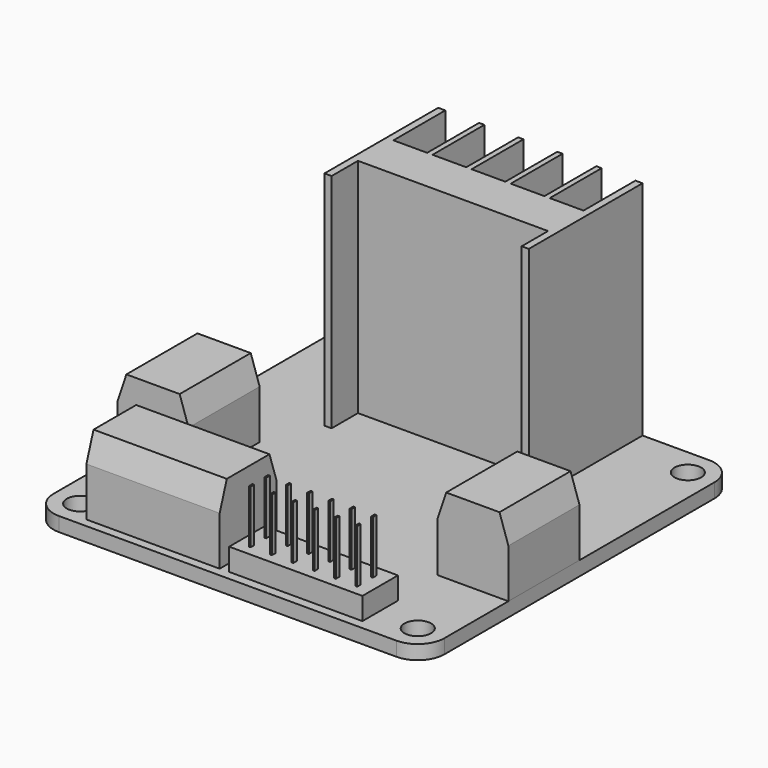
from build123d import *

# Parameters (mm, degrees)
F0_R      = 1.5
F1_DEPTH  = 0.8
F3_DEPTH  = 25
F4_W      = 15
F4_H      = 8
F4_W_2    = 8
F4_H_2    = 10
F5_DEPTH  = 8.5
F6_SIZE2  = 1
F6_SIZE   = 3
F7_W      = 15
F7_H      = 5
F8_DEPTH  = 2.5
F9_W      = 0.2
F9_H      = 0.5
F10_DEPTH = 6


with BuildPart() as f1:
    # F0 (on Top) → F1 (new body, symmetric)
    with BuildSketch(Plane.XY):
        with BuildLine():
            Line((19, 22), (-19, 22))
            ThreePointArc((-19, 22), (-21.12132, 21.12132), (-22, 19))
            Line((-22, 19), (-22, -19))
            ThreePointArc((-22, -19), (-21.12132, -21.12132), (-19, -22))
            Line((-19, -22), (19, -22))
            ThreePointArc((19, -22), (21.12132, -21.12132), (22, -19))
            Line((22, -19), (22, 19))
            ThreePointArc((22, 19), (21.12132, 21.12132), (19, 22))
        make_face()
        with Locations((-19, -19)):
            Circle(F0_R, mode=Mode.SUBTRACT)
        with Locations((19, -19)):
            Circle(F0_R, mode=Mode.SUBTRACT)
        with Locations((-19, 19)):
            Circle(F0_R, mode=Mode.SUBTRACT)
        with Locations((19, 19)):
            Circle(F0_R, mode=Mode.SUBTRACT)
    extrude(amount=F1_DEPTH, both=True)


with BuildPart() as f3:
    # F2 (on face) → F3 (new body)
    with BuildSketch(Plane.XY.offset(0.8)):
        Polygon((-10.7, 22), (-11.5, 22), (-11.5, 6), (-10.7, 6), (-10.7, 9.711665), (10.7, 9.711665), (10.7, 6), (11.5, 6), (11.5, 22), (10.7, 22), (10.7, 14.7), (6.9, 14.7), (6.9, 22), (6.3, 22), (6.3, 14.7), (2.5, 14.7), (2.5, 22), (1.9, 22), (1.9, 14.7), (-1.9, 14.7), (-1.9, 22), (-2.5, 22), (-2.5, 14.7), (-6.3, 14.7), (-6.3, 22), (-6.9, 22), (-6.9, 14.7), (-10.7, 14.7), align=None)
    extrude(amount=F3_DEPTH)


with BuildPart() as f5:
    # F4 (on face) → F5 (new body)
    with BuildSketch(Plane.XY.offset(0.8)):
        with Locations((-9.185456, -17.013481)):
            Rectangle(F4_W, F4_H)
        with Locations((-18, -5)):
            Rectangle(F4_W_2, F4_H_2)
        with Locations((18, -5)):
            Rectangle(F4_W_2, F4_H_2)
    extrude(amount=F5_DEPTH)

    # F6
    f6_edges = [f5.edges().sort_by_distance(p)[0] for p in [
        (22, -5, 9.3),
        (14, -5, 9.3),
        (-14, -5, 9.3),
        (-9.185456, -21.013481, 9.3),
        (-22, -5, 9.3),
        (-9.185456, -13.013481, 9.3),
    ]]
    chamfer(f6_edges, length=F6_SIZE, length2=F6_SIZE2)


with BuildPart() as f8:
    # F7 (on face) → F8 (new body)
    with BuildSketch(Plane.XY.offset(0.8)):
        with Locations((6.84347, -18.466163)):
            Rectangle(F7_W, F7_H)
    extrude(amount=F8_DEPTH)

    # F9 (on face) → F10 (join)
    with BuildSketch(Plane.XY.offset(3.3)):
        with Locations((0.791427, -19.638107)):
            Rectangle(F9_W, F9_H)
        with Locations((0.791427, -17.438107)):
            Rectangle(F9_W, F9_H)
        with Locations((3.191427, -17.438107)):
            Rectangle(F9_W, F9_H)
        with Locations((3.191427, -19.638107)):
            Rectangle(F9_W, F9_H)
        with Locations((5.591427, -19.638107)):
            Rectangle(F9_W, F9_H)
        with Locations((5.591427, -17.438107)):
            Rectangle(F9_W, F9_H)
        with Locations((7.991427, -17.438107)):
            Rectangle(F9_W, F9_H)
        with Locations((7.991427, -19.638107)):
            Rectangle(F9_W, F9_H)
        with Locations((10.391427, -19.638107)):
            Rectangle(F9_W, F9_H)
        with Locations((10.391427, -17.438107)):
            Rectangle(F9_W, F9_H)
        with Locations((12.791427, -17.438107)):
            Rectangle(F9_W, F9_H)
        with Locations((12.791427, -19.638107)):
            Rectangle(F9_W, F9_H)
    extrude(amount=F10_DEPTH)


solid = Compound([f1.part, f3.part, f5.part, f8.part])
